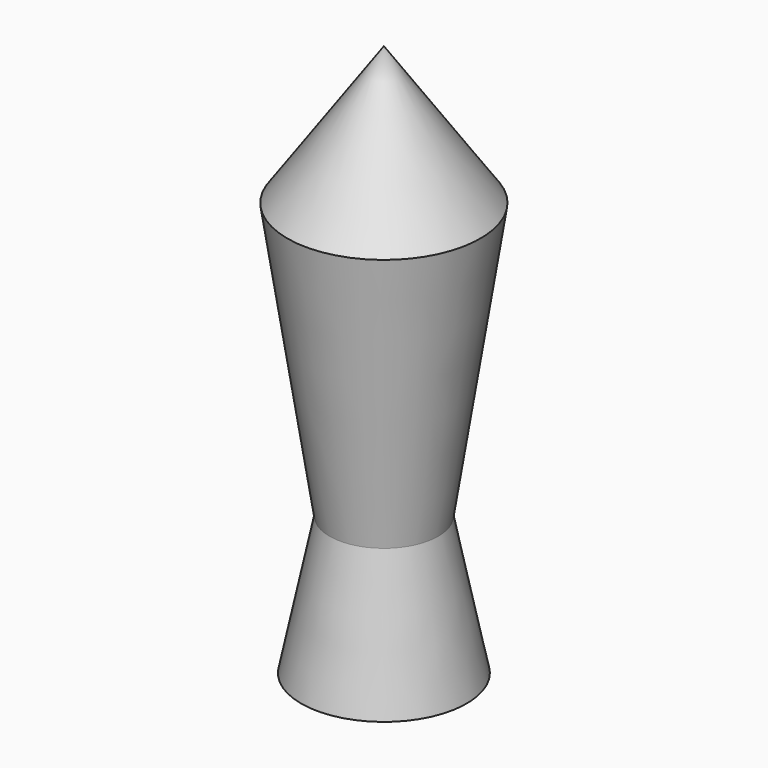
from build123d import *


with BuildPart() as f1:
    # F0 (on Front) → F1 (revolve)
    with BuildSketch(Plane.XZ):
        Polygon((-15.24, 0), (0, 0), (0, 25.4), (-10.009029, 25.4), align=None)
    revolve(axis=Axis((0, 0, 12.7), (0, 0, -1)))

    # F2 (on Front) → F3 (revolve)
    with BuildSketch(Plane.XZ):
        Polygon((-17.78, 76.2), (-10.009029, 25.4), (0, 25.4), (0, 76.2), align=None)
    revolve(axis=Axis((0, 0, 50.8), (0, 0, 1)))

    # F4 (on Front) → F5 (revolve)
    with BuildSketch(Plane.XZ):
        Polygon((0, 101.6), (-17.78, 76.2), (0, 76.2), align=None)
    revolve(axis=Axis((0, 0, 88.9), (0, 0, 1)))


solid = f1.part
